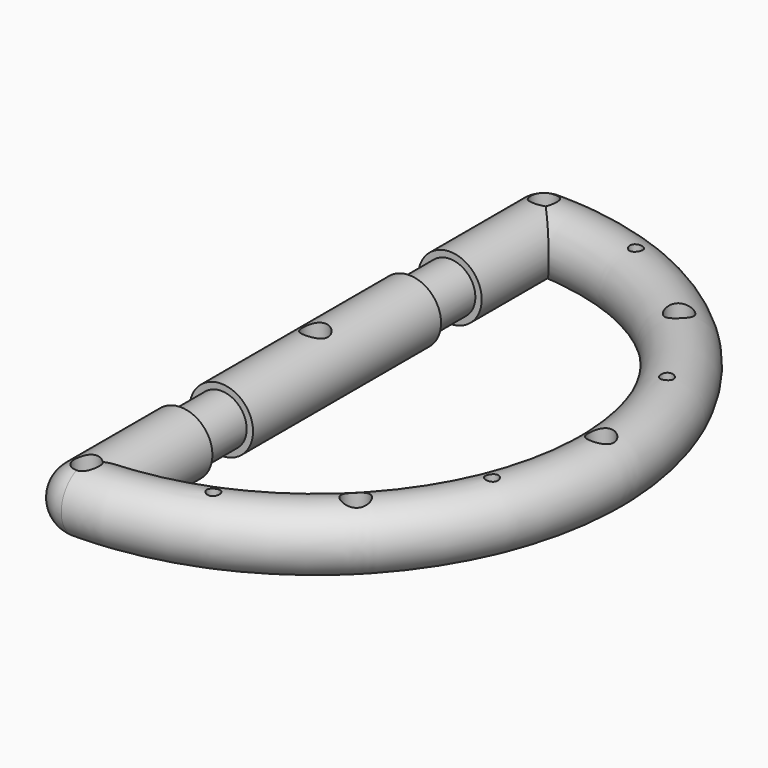
from build123d import *

# Parameters (mm, degrees)
F0_R           = 5
F1_DEPTH       = 90
F3_R           = 5
F8_R           = 2
F9_DEPTH       = 25
F9_DEPTH_BACK  = 3
F11_R          = 5
F11_R_2        = 4
F12_DEPTH      = 4
F14_R          = 1
F15_DEPTH      = 5.001
F15_DEPTH_BACK = 5.001


with BuildPart() as f1:
    # F0 (on Front) → F1 (new body)
    with BuildSketch(Plane.XZ):
        Circle(F0_R)
    extrude(amount=F1_DEPTH)

    # F4: sweep along a path in F2
    with BuildLine(Plane.XY) as f4_path:
        ThreePointArc((0, 0), (45, -45), (0, -90))
    # F3 (on Right) → F4 (sweep)
    with BuildSketch(Plane.YZ):
        with Locations((-90, 0)):
            Circle(F3_R)
    sweep(path=f4_path.line)

    # F1_face (on face) → F5 (revolve)
    with BuildSketch(Plane(origin=(-2.122066, 0, 0), x_dir=(1, 0, 0), z_dir=(0, 1, 0))):
        with BuildLine():
            Line((2.122066, -5), (2.122066, 5))
            ThreePointArc((2.122066, 5), (-2.877934, 0), (2.122066, -5))
        make_face()
    revolve(axis=Axis((0, 0, 0), (0, 0, 1)))

    # F7: F1 across plane


with BuildPart() as f1_1:
    add(f1.part)
    add(f1.part.mirror(Plane.XZ.offset(45)))

    # F8 (on Top) → F9 (cut, two sides)
    with BuildSketch(Plane.XY) as f9_sk:
        Circle(F8_R)
        with Locations((0, -90)):
            Circle(F8_R)
        with Locations((31.819805, -76.819805)):
            Circle(F8_R)
        with Locations((45, -45)):
            Circle(F8_R)
        with Locations((31.819805, -13.180195)):
            Circle(F8_R)
        with Locations((0, -45)):
            Circle(F8_R)
    extrude(amount=F9_DEPTH, mode=Mode.SUBTRACT)
    extrude(f9_sk.sketch, amount=-F9_DEPTH_BACK, mode=Mode.SUBTRACT)

    # F11 (on offset) → F12 (cut, symmetric)
    with BuildSketch(Plane.XZ.offset(67.5)):
        Circle(F11_R)
        Circle(F11_R_2, mode=Mode.SUBTRACT)
    extrude(amount=F12_DEPTH, both=True, mode=Mode.SUBTRACT)

    # F13: F1 across plane


with BuildPart() as f1_2:
    add(f1_1.part)
    add(f1_1.part.mirror(Plane.XZ.offset(45)), mode=Mode.INTERSECT)

    # F14 (on Top) → F15 (cut, two sides)
    with BuildSketch(Plane.XY) as f15_sk:
        with Locations((17.220754, -86.574579)):
            Circle(F14_R)
        with Locations((41.574579, -62.220754)):
            Circle(F14_R)
        with Locations((41.574579, -27.779246)):
            Circle(F14_R)
        with Locations((17.220754, -3.425421)):
            Circle(F14_R)
    extrude(amount=F15_DEPTH, mode=Mode.SUBTRACT)
    extrude(f15_sk.sketch, amount=-F15_DEPTH_BACK, mode=Mode.SUBTRACT)


solid = f1_2.part
